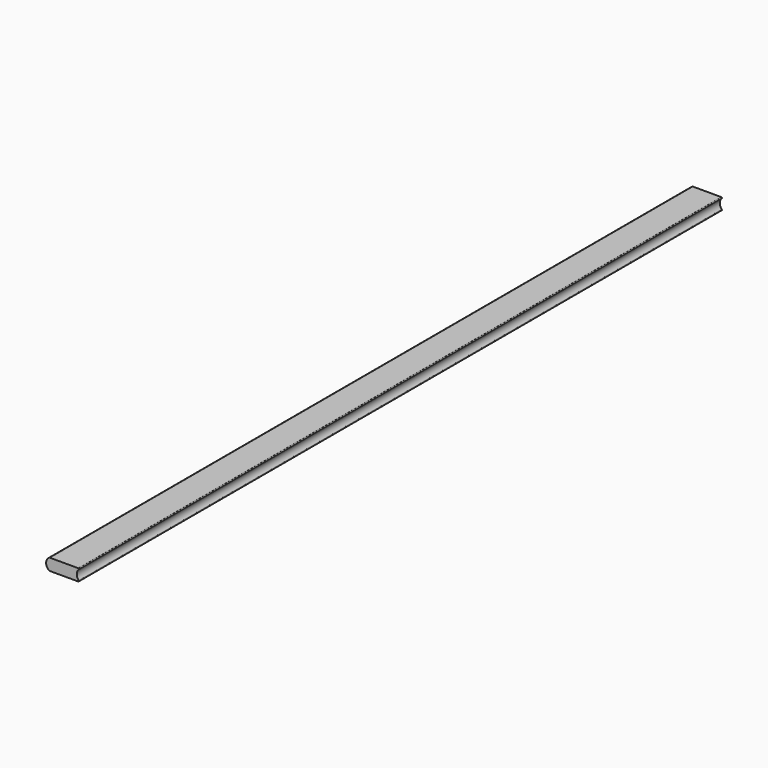
from build123d import *

# Parameters (mm, degrees)
F0_W     = 100
F0_H     = 35
F1_DEPTH = 2400
F3_DEPTH = 2400


with BuildPart() as f1:
    # F0 (on Front) → F1 (new body)
    with BuildSketch(Plane.XZ):
        Rectangle(F0_W, F0_H)
    extrude(amount=F1_DEPTH)

    # F2 (on face) → F3 (cut, through all)
    with BuildSketch(Plane(origin=(0, 0, 0), x_dir=(-1, 0, 0), z_dir=(0, 1, 0))):
        with BuildLine():
            Line((-50, -17.5), (-47, -17.5))
            ThreePointArc((-47, -17.5), (-48.846372, -16.268706), (-48.419318, -14.090909))
            ThreePointArc((-48.419318, -14.090909), (-42.612495, 0), (-48.419318, 14.090909))
            ThreePointArc((-48.419318, 14.090909), (-48.846372, 16.268706), (-47, 17.5))
            Line((-47, 17.5), (-50, 17.5))
            Line((-50, 17.5), (-50, -17.5))
        make_face()
        with BuildLine():
            ThreePointArc((38.682458, 17.5), (49, 0), (38.682458, -17.5))
            Line((38.682458, -17.5), (50, -17.5))
            Line((50, -17.5), (50, 17.5))
            Line((50, 17.5), (38.682458, 17.5))
        make_face()
    extrude(amount=-F3_DEPTH, mode=Mode.SUBTRACT)


solid = f1.part
